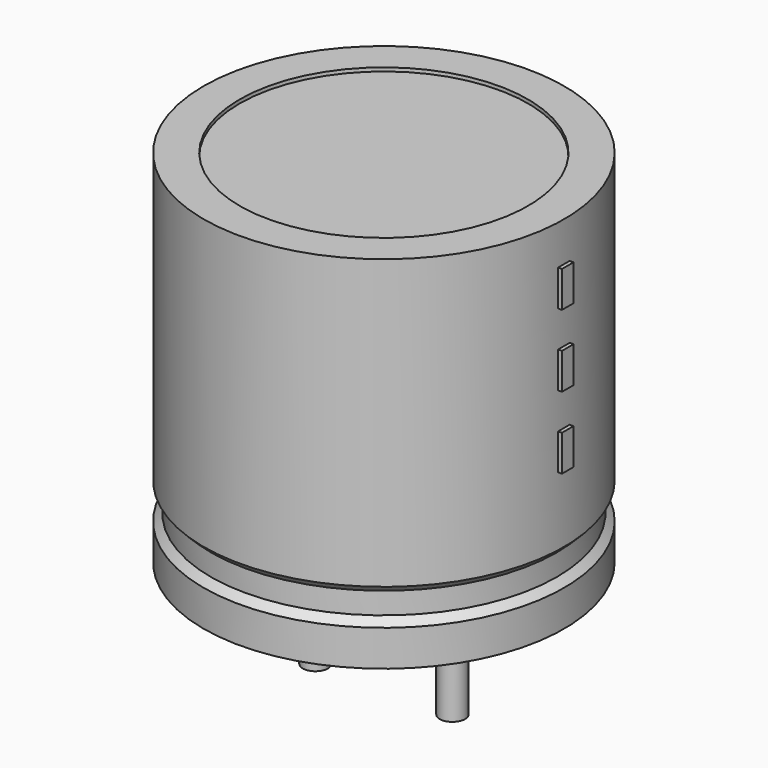
from build123d import *

# Parameters (mm, degrees)
SKETCH002_W  = 4.6
SKETCH002_H  = 9.8
SKETCH003_R  = 0.35
PAD_DEPTH    = 4
SKETCH004_W  = 0.4
SKETCH004_H  = 1
PAD001_DEPTH = 5.1


with BuildPart() as revolution:
    # Sketch → Revolution (revolve)
    with BuildSketch(Plane.XZ):
        Polygon((-3.1, 0.1), (-3.1, 1.1), (-2.9, 1.3), (-2.9, 1.9), (-3.1, 2.1), (-3.1, 10.1), (-2.1, 10.1), (-2.1, 0.1), align=None)
    revolve(axis=Axis((1.9, 0, 7.548619), (0, 0, -1)))


with BuildPart() as revolution001:
    # Sketch002 → Revolution001 (revolve)
    with BuildSketch(Plane.XZ):
        with Locations((-0.4, 5.1)):
            Rectangle(SKETCH002_W, SKETCH002_H)
    revolve(axis=Axis((1.9, 0, 4.680116), (0, 0, -1)))


with BuildPart() as pad:
    # Sketch003 → Pad (new body)
    with BuildSketch(Plane.XY.offset(1)):
        Circle(SKETCH003_R)
        with Locations((3.8, 0)):
            Circle(SKETCH003_R)
    extrude(amount=-PAD_DEPTH)


with BuildPart() as pad001:
    # Sketch004 → Pad001 (new body)
    with BuildSketch(Plane.YZ.offset(1.9)):
        with Locations((0, 4.5)):
            Rectangle(SKETCH004_W, SKETCH004_H)
        with Locations((0, 6.5)):
            Rectangle(SKETCH004_W, SKETCH004_H)
        with Locations((0, 8.5)):
            Rectangle(SKETCH004_W, SKETCH004_H)
    extrude(amount=PAD001_DEPTH)


solid = Compound([revolution.part, revolution001.part, pad.part, pad001.part])
